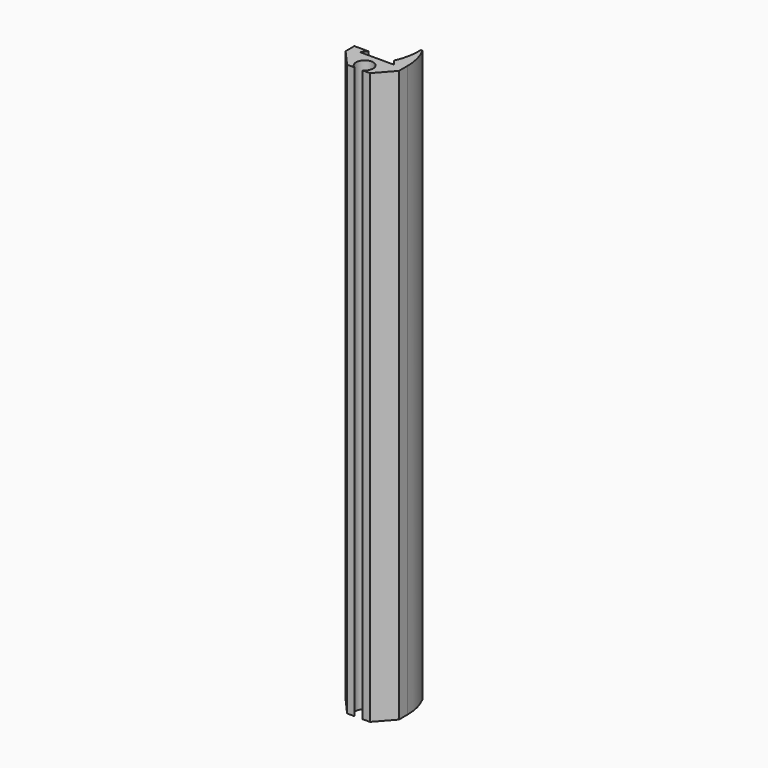
from build123d import *

# Parameters (mm, degrees)
F1_DEPTH = 150


with BuildPart() as f1:
    # F0 (on Top) → F1 (new body)
    with BuildSketch(Plane.XY):
        Polygon((7, 2.5), (7, 4), (4.5, 4), (-4.5, 4), (-7, 4), (-7, 2.5), align=None)
        Polygon((4.5, 4), (7, 4), (7, 5.382979), (3.339543, 5.382979), align=None)
        with BuildLine():
            Line((3, -2.015564), (7, 2.5))
            Line((7, 2.5), (-7, 2.5))
            Line((-7, 2.5), (-3, -2.015564))
            Line((-3, -2.015564), (-1, -2.015564))
            ThreePointArc((-1, -2.015564), (0, 2.25), (1, -2.015564))
            Line((1, -2.015564), (3, -2.015564))
        make_face()
        with BuildLine():
            Line((3.339543, 5.382979), (7, 5.382979))
            ThreePointArc((7, 5.382979), (6.546372, 9.016241), (5.21334, 12.426431))
            ThreePointArc((5.21334, 12.426431), (4.929027, 12.548792), (4.743648, 12.300918))
            ThreePointArc((4.743648, 12.300918), (4.433508, 8.762404), (3.339543, 5.382979))
        make_face()
        Polygon((-7, 4), (-4.5, 4), (-3.339543, 5.382979), (-7, 5.382979), align=None)
    extrude(amount=F1_DEPTH)


solid = f1.part
